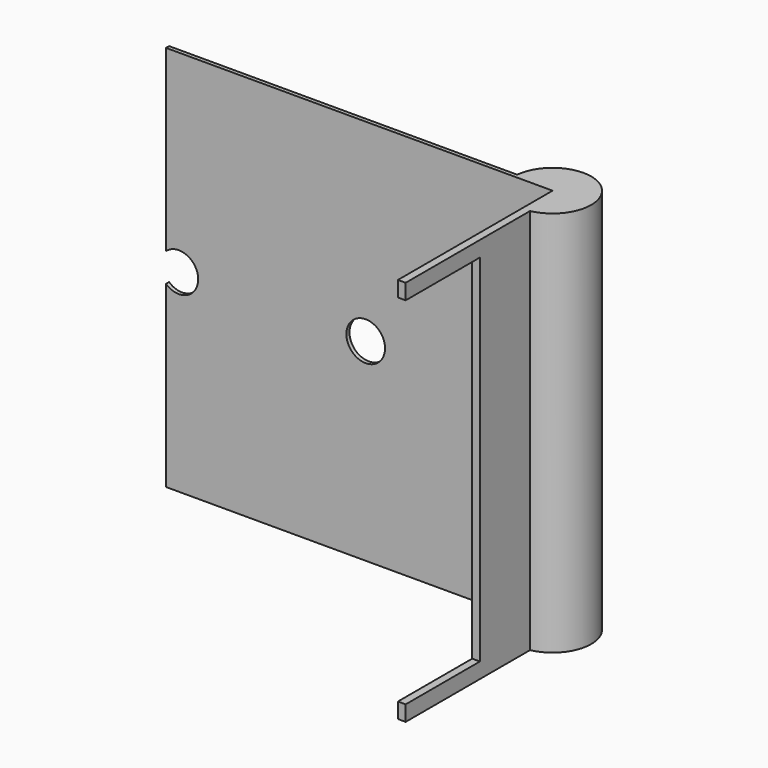
from build123d import *

# Parameters (mm, degrees)
PAD_DEPTH       = 100
SKETCH001_R     = 5
POCKET_DEPTH    = 60.001
SKETCH002_W     = 24
SKETCH002_H     = 92
POCKET001_DEPTH = 110.001


with BuildPart() as part:
    # Sketch → Pad (new body)
    with BuildSketch(Plane.XY):
        with BuildLine():
            Line((100, 0), (100, 50))
            Line((100, 50), (0, 50))
            Line((0, 50), (0, 51))
            Line((0, 51), (90.050126, 51))
            ThreePointArc((102, 40.202041), (106.704409, 57.419629), (90.050126, 51))
            Line((102, 40.202041), (102, 0))
            Line((102, 0), (100, 0))
        make_face()
    extrude(amount=PAD_DEPTH)

    # Sketch001 → Pocket (cut, through all)
    with BuildSketch(Plane.XZ):
        with Locations((3.333333, 50)):
            Circle(SKETCH001_R)
        with Locations((51.666667, 50)):
            Circle(SKETCH001_R)
    extrude(amount=-POCKET_DEPTH, mode=Mode.SUBTRACT)

    # Sketch002 → Pocket001 (cut, through all)
    with BuildSketch(Plane.YZ):
        with Locations((12, 50)):
            Rectangle(SKETCH002_W, SKETCH002_H)
    extrude(amount=POCKET001_DEPTH, mode=Mode.SUBTRACT)


solid = part.part
